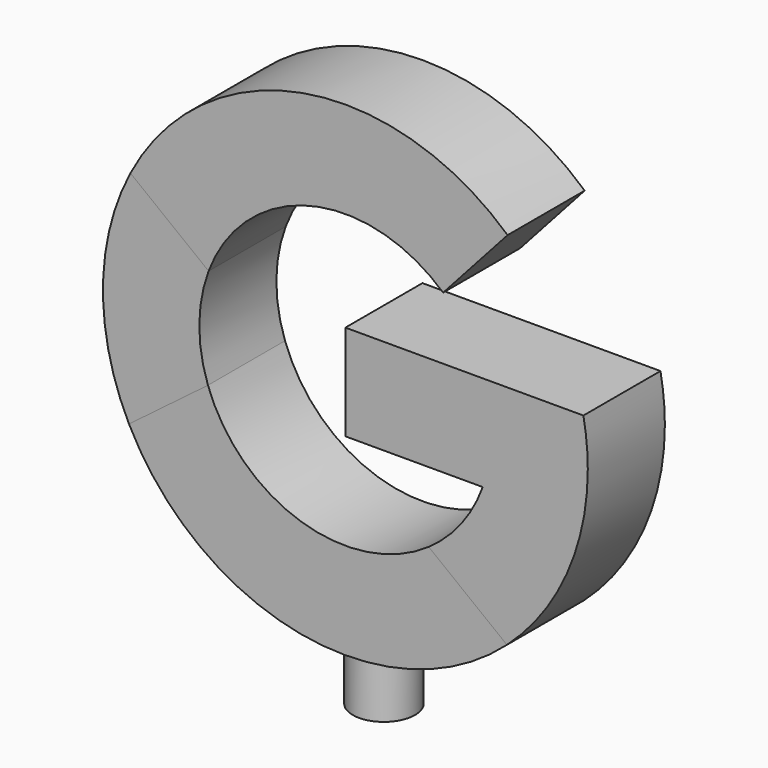
from build123d import *

# Parameters (mm, degrees)
F1_DEPTH = 9.8425
F2_DEPTH = 9.8425
F4_START = -45.72
F3_R     = 6.35
F4_DEPTH = 3.81
F5_DEPTH = 12.7


with BuildPart() as f1:
    # F0 (on Front) → F1 (new body, symmetric)
    with BuildSketch(Plane.XZ):
        with BuildLine():
            Line((19.9702029468, 22.1791573164), (33.142038933, 36.8079632059))
            ThreePointArc((33.142038933, 36.8079632059), (-8.7986103434, 48.7422338022), (-43.919624031, 22.8973257167))
            Line((-43.919624031, 22.8973257167), (-27.9467375514, 10.4739622509))
            ThreePointArc((-27.9467375514, 10.4739622509), (-7.0823141666, 28.9924964611), (19.9702029468, 22.1791573164))
        make_face()
    extrude(amount=F1_DEPTH, both=True)


with BuildPart() as f1b:
    # F0 (on Front) → F1, piece 2 (new body, symmetric)
    with BuildSketch(Plane.XZ):
        with BuildLine():
            ThreePointArc((-44.2155780636, -22.320473931), (-9.2087159364, -48.666420156), (33.003755918, -36.9320050268))
            Line((33.003755918, -36.9320050268), (17.0308694384, -24.5086415611))
            ThreePointArc((17.0308694384, -24.5086415611), (-9.0762762319, -28.4314128168), (-28.0814432165, -10.1072534291))
            Line((-28.0814432165, -10.1072534291), (-44.2155780636, -22.320473931))
        make_face()
    extrude(amount=F1_DEPTH, both=True)

    # F3 (on Top) → F4 (join)
    with BuildSketch(Plane.XY.offset(F4_START)):
        Circle(F3_R)
    extrude(amount=-F4_DEPTH)


with BuildPart() as f2:
    # F0 (on Front) → F2 (new body, symmetric)
    with BuildSketch(Plane.XZ):
        with BuildLine():
            ThreePointArc((-43.919624031, 22.8973257167), (-49.5289391498, 0.3241707775), (-44.2155780636, -22.320473931))
            Line((-44.2155780636, -22.320473931), (-28.0814432165, -10.1072534291))
            ThreePointArc((-28.0814432165, -10.1072534291), (-29.8443607698, 0.1953336736), (-27.9467375514, 10.4739622509))
            Line((-27.9467375514, 10.4739622509), (-43.919624031, 22.8973257167))
        make_face()
    extrude(amount=F2_DEPTH, both=True)


with BuildPart() as f2b:
    # F0 (on Front) → F2, piece 2 (new body, symmetric)
    with BuildSketch(Plane.XZ):
        with BuildLine():
            ThreePointArc((33.003755918, -36.9320050268), (45.2100482781, -20.2304828091), (49.53, 0))
            ThreePointArc((49.53, 0), (49.304542376, 4.7204873787), (48.6302220435, 9.398))
            Line((48.6302220435, 9.398), (28.3266944948, 9.398))
            Line((28.3266944948, 9.398), (8.4619972083, 9.398))
            Line((8.4619972083, 9.398), (0, 9.398))
            Line((0, 9.398), (0, -10.16))
            Line((0, -10.16), (28.0624023384, -10.16))
            ThreePointArc((28.0624023384, -10.16), (23.6605508927, -18.1907217134), (17.0308694384, -24.5086415611))
            Line((17.0308694384, -24.5086415611), (33.003755918, -36.9320050268))
        make_face()
    extrude(amount=F2_DEPTH, both=True)


with BuildPart() as f5:
    # F5 (new): a face of the model
    f5_faces = [f1b.part.faces().sort_by_distance(p)[0] for p in [
        (0, 0, -49.53),
    ]]
    extrude(f5_faces, amount=F5_DEPTH)


solid = Compound([f1.part, f1b.part, f2.part, f2b.part, f5.part])
